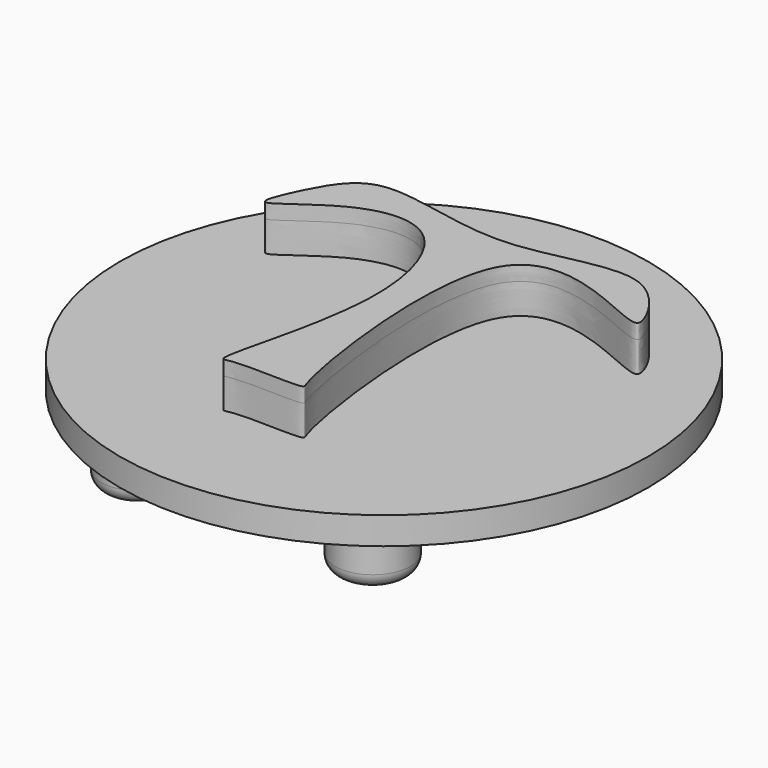
from build123d import *

# Parameters (mm, degrees)
F1_DEPTH = 10.5329509825
F2_R     = 91.5062605332
F3_DEPTH = 9.466515854
F4_DEPTH = 5.0714723766
F5_R     = 11.0382307201
F6_DEPTH = 37.5179350376
F8_R     = 13.0424508939
F8_R_2   = 12.6334883402
F9_DEPTH = 21.2381985039
F10_R    = 5.08
F11_R    = 5.08


with BuildPart() as f1:
    # F0 (on Top) → F1 (new body)
    with BuildSketch(Plane.XY):
        with BuildLine():
            add(Edge.make_bspline(
                [(-59.9892139435, 40.5502170324), (-56.5532096118, 47.4156346946), (-47.1933614586, 62.6940450072), (0.5334010504, 42.6996354598), (44.5922717573, 65.0236896385), (59.9437177684, 39.0594527581), (58.8958892551, 33.5516760647), (37.0905492147, 46.0390256171), (-5.8831168013, 50.7796165912), (8.9864579341, -45.8909387515), (13.7388025572, -51.0257491648), (-11.9384832079, -48.9279963012), (-18.7059577987, -53.2977414637), (0.2175021026, 2.3935056932), (-15.2938172873, 48.005749038), (-45.9778242059, 42.7208988393), (-68.4245527845, 21.7588044935), (-62.7064691925, 35.1209188192), (-59.9892139435, 40.5502170324)],
                knots=[0, 0, 0, 0, 0.0572425443, 0.1432084624, 0.227961839, 0.2877043741, 0.3072702977, 0.3671038211, 0.4359128669, 0.5522578056, 0.5739663519, 0.6352941949, 0.6584720786, 0.7489192164, 0.8326309003, 0.8975401611, 0.954731546, 1, 1, 1, 1], degree=3))
        make_face()
    extrude(amount=F1_DEPTH)

    # F2 (on Top) → F3 (join)
    with BuildSketch(Plane.XY):
        Circle(F2_R)
    extrude(amount=-F3_DEPTH)

    # F4 (add): a face of the model
    f4_faces = [f1.faces().sort_by_distance(p)[0] for p in [
        (-3.5167832861, 18.4648036017, 10.5329509825),
    ]]
    extrude(f4_faces, amount=F4_DEPTH)

    # F5 (on face) → F6 (join)
    with BuildSketch(Plane(origin=(0, 0, -9.466515854), x_dir=(1, 0, 0), z_dir=(0, 0, -1))):
        with Locations((0.6254226909, -59.0758901089)):
            Circle(F5_R)
    extrude(amount=F6_DEPTH)

    # F8 (on face) → F9 (join)
    with BuildSketch(Plane(origin=(0, 0, -9.466515854), x_dir=(1, 0, 0), z_dir=(0, 0, -1))):
        with Locations((37.6836955547, 51.9920885563)):
            Circle(F8_R)
        with Locations((-42.5546132028, 53.5276122391)):
            Circle(F8_R_2)
    extrude(amount=F9_DEPTH)

    # F10
    f10_edges = [f1.edges().sort_by_distance(p)[0] for p in [
        (24.641245, -51.992089, -30.704714),
        (-55.188102, -53.527612, -30.704714),
    ]]
    fillet(f10_edges, radius=F10_R)

    # F11
    f11_edges = [f1.edges().sort_by_distance(p)[0] for p in [
        (-10.412808, 59.07589, -46.984451),
    ]]
    fillet(f11_edges, radius=F11_R)


solid = f1.part
